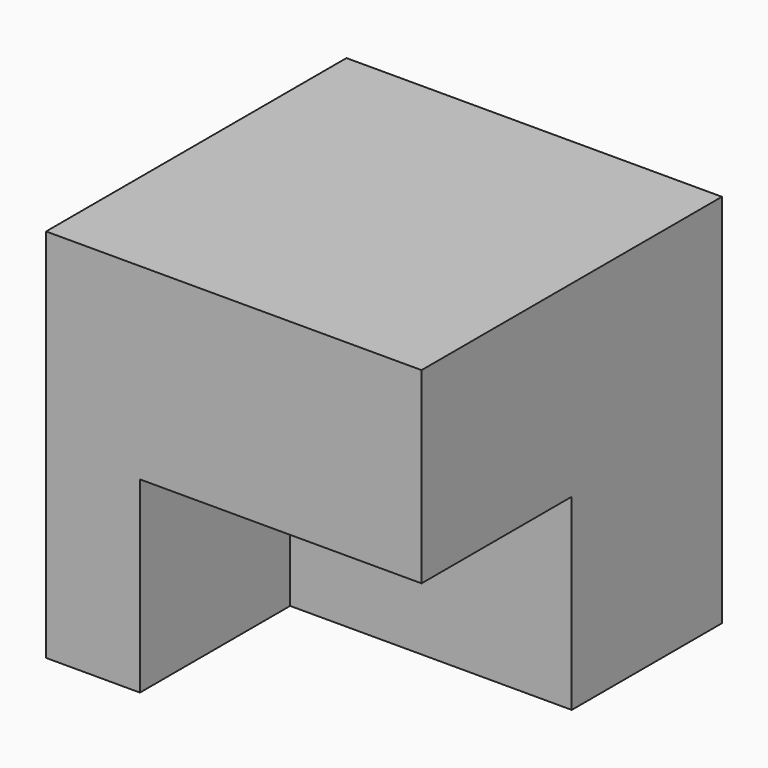
from build123d import *

# Parameters (mm, degrees)
F0_W     = 50.8
F0_H     = 50.8
F1_DEPTH = 50.8
F2_W     = 38.1
F2_H     = 25.4
F3_DEPTH = 25.4


with BuildPart() as f1:
    # F0 (on Top) → F1 (new body)
    with BuildSketch(Plane.XY):
        with Locations((3.653681, -0.464274)):
            Rectangle(F0_W, F0_H)
    extrude(amount=F1_DEPTH)

    # F2 (on face) → F3 (cut)
    with BuildSketch(Plane.XZ.offset(25.864274)):
        with Locations((10.003681, 12.7)):
            Rectangle(F2_W, F2_H)
        with Locations((10.003681, 12.7)):
            Rectangle(F2_W, F2_H)
    extrude(amount=-F3_DEPTH, mode=Mode.SUBTRACT)


solid = f1.part
